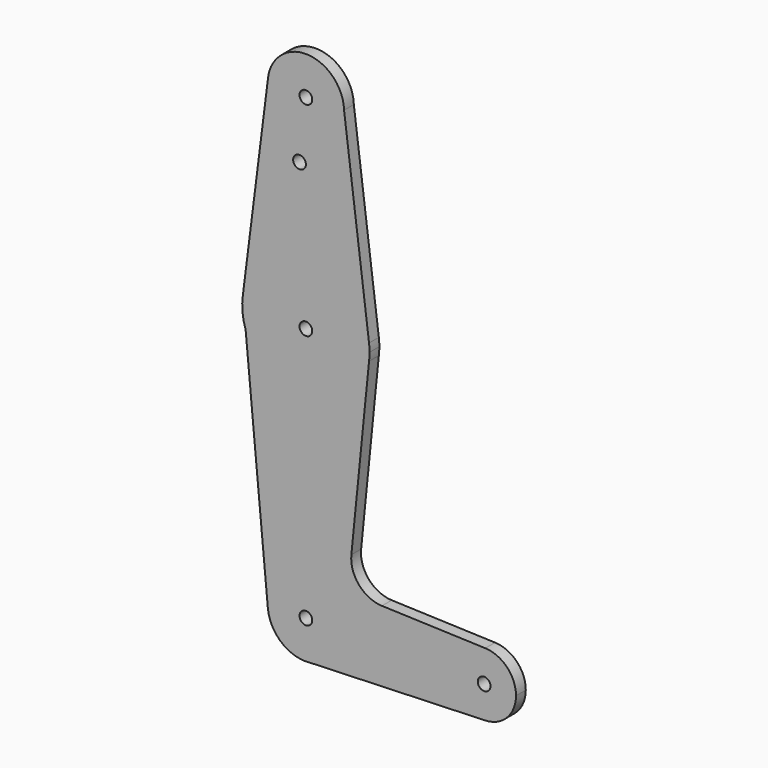
from build123d import *

# Parameters (mm, degrees)
F0_R     = 1.5875
F1_DEPTH = 3.048
F2_DEPTH = 3.048


with BuildPart() as f1:
    # F0 (on Front) → F1 (new body)
    with BuildSketch(Plane.XZ):
        with BuildLine():
            ThreePointArc((-40.245861, 57.758709), (-31.072538, 47.581872), (-21.218582, 57.10119))
            ThreePointArc((-21.218582, 57.10119), (-21.219597, 57.24023), (-21.222642, 57.37924))
            ThreePointArc((-21.222642, 57.37924), (-30.553618, 66.624296), (-40.245861, 57.758709))
        make_face()
        with Locations((-30.743582, 57.10119)):
            Circle(F0_R, mode=Mode.SUBTRACT)
        with BuildLine():
            ThreePointArc((-21.222642, 57.37924), (-21.219597, 57.24023), (-21.218582, 57.10119))
            ThreePointArc((-21.218582, 57.10119), (-31.072538, 47.581872), (-40.245861, 57.758709))
            Line((-40.245861, 57.758709), (-46.456372, 8.564788))
            ThreePointArc((-46.456372, 8.564788), (-30.609759, 22.175626), (-14.994864, 8.299563))
            Line((-14.994864, 8.299563), (-21.222642, 57.37924))
        make_face()
        with Locations((-32.331082, 42.371821)):
            Circle(F0_R, mode=Mode.SUBTRACT)
        with BuildLine():
            ThreePointArc((-14.868582, 6.30119), (-14.900184, 7.30237), (-14.994864, 8.299563))
            ThreePointArc((-14.994864, 8.299563), (-30.609759, 22.175626), (-46.456372, 8.564788))
            Line((-46.456372, 8.564788), (-45.764803, 1.165184))
            ThreePointArc((-45.764803, 1.165184), (-29.133149, -9.491914), (-14.994864, 4.302817))
            ThreePointArc((-14.994864, 4.302817), (-14.900184, 5.30001), (-14.868582, 6.30119))
        make_face()
        with Locations((-30.743582, 6.30119)):
            Circle(F0_R, mode=Mode.SUBTRACT)
        with BuildLine():
            Line((-45.764803, 1.165184), (-46.456372, 8.564788))
            ThreePointArc((-46.456372, 8.564788), (-46.549701, 4.823947), (-45.764803, 1.165184))
        make_face()
        with BuildLine():
            ThreePointArc((-14.994864, 4.302817), (-29.133149, -9.491914), (-45.764803, 1.165184))
            Line((-45.764803, 1.165184), (-40.227253, -58.085156))
            ThreePointArc((-40.227253, -58.085156), (-31.187237, -47.684148), (-21.218582, -57.19881))
            ThreePointArc((-21.218582, -57.19881), (-23.60461, -63.504418), (-29.567285, -66.650897))
            Line((-29.567285, -66.650897), (13.983177, -65.131484))
            ThreePointArc((13.983177, -65.131484), (5.768918, -57.195985), (13.988823, -49.266335))
            Line((13.988823, -49.266335), (-11.776856, -48.349047))
            ThreePointArc((-11.776856, -48.349047), (-17.483755, -45.631547), (-19.404416, -39.60954))
            Line((-19.404416, -39.60954), (-14.994864, 4.302817))
        make_face()
        with BuildLine():
            ThreePointArc((-21.218582, -57.19881), (-31.187237, -47.684148), (-40.227253, -58.085156))
            ThreePointArc((-40.227253, -58.085156), (-36.709829, -64.623736), (-29.567285, -66.650897))
            ThreePointArc((-29.567285, -66.650897), (-23.60461, -63.504418), (-21.218582, -57.19881))
        make_face()
        with Locations((-30.743582, -57.19881)):
            Circle(F0_R, mode=Mode.SUBTRACT)
        with BuildLine():
            ThreePointArc((13.988823, -49.266335), (5.768918, -57.195985), (13.983177, -65.131484))
            ThreePointArc((13.983177, -65.131484), (19.416089, -62.712753), (21.643918, -57.19881))
            ThreePointArc((21.643918, -57.19881), (19.41805, -51.6869), (13.988823, -49.266335))
        make_face()
        with Locations((13.706418, -57.19881)):
            Circle(F0_R, mode=Mode.SUBTRACT)
    extrude(amount=F1_DEPTH)


with BuildPart() as f2:
    # F0 (on Front) → F2 (new body)
    with BuildSketch(Plane.XZ):
        with BuildLine():
            ThreePointArc((-40.245861, 57.758709), (-31.072538, 47.581872), (-21.218582, 57.10119))
            ThreePointArc((-21.218582, 57.10119), (-21.219597, 57.24023), (-21.222642, 57.37924))
            ThreePointArc((-21.222642, 57.37924), (-30.553618, 66.624296), (-40.245861, 57.758709))
        make_face()
        with Locations((-30.743582, 57.10119)):
            Circle(F0_R, mode=Mode.SUBTRACT)
        with BuildLine():
            ThreePointArc((-21.222642, 57.37924), (-21.219597, 57.24023), (-21.218582, 57.10119))
            ThreePointArc((-21.218582, 57.10119), (-31.072538, 47.581872), (-40.245861, 57.758709))
            Line((-40.245861, 57.758709), (-46.456372, 8.564788))
            ThreePointArc((-46.456372, 8.564788), (-30.609759, 22.175626), (-14.994864, 8.299563))
            Line((-14.994864, 8.299563), (-21.222642, 57.37924))
        make_face()
        with Locations((-32.331082, 42.371821)):
            Circle(F0_R, mode=Mode.SUBTRACT)
        with BuildLine():
            ThreePointArc((-14.868582, 6.30119), (-14.900184, 7.30237), (-14.994864, 8.299563))
            ThreePointArc((-14.994864, 8.299563), (-30.609759, 22.175626), (-46.456372, 8.564788))
            Line((-46.456372, 8.564788), (-45.764803, 1.165184))
            ThreePointArc((-45.764803, 1.165184), (-29.133149, -9.491914), (-14.994864, 4.302817))
            ThreePointArc((-14.994864, 4.302817), (-14.900184, 5.30001), (-14.868582, 6.30119))
        make_face()
        with Locations((-30.743582, 6.30119)):
            Circle(F0_R, mode=Mode.SUBTRACT)
        with BuildLine():
            Line((-45.764803, 1.165184), (-46.456372, 8.564788))
            ThreePointArc((-46.456372, 8.564788), (-46.549701, 4.823947), (-45.764803, 1.165184))
        make_face()
        with BuildLine():
            ThreePointArc((-14.994864, 4.302817), (-29.133149, -9.491914), (-45.764803, 1.165184))
            Line((-45.764803, 1.165184), (-40.227253, -58.085156))
            ThreePointArc((-40.227253, -58.085156), (-31.187237, -47.684148), (-21.218582, -57.19881))
            ThreePointArc((-21.218582, -57.19881), (-23.60461, -63.504418), (-29.567285, -66.650897))
            Line((-29.567285, -66.650897), (13.983177, -65.131484))
            ThreePointArc((13.983177, -65.131484), (5.768918, -57.195985), (13.988823, -49.266335))
            Line((13.988823, -49.266335), (-11.776856, -48.349047))
            ThreePointArc((-11.776856, -48.349047), (-17.483755, -45.631547), (-19.404416, -39.60954))
            Line((-19.404416, -39.60954), (-14.994864, 4.302817))
        make_face()
        with BuildLine():
            ThreePointArc((-21.218582, -57.19881), (-31.187237, -47.684148), (-40.227253, -58.085156))
            ThreePointArc((-40.227253, -58.085156), (-36.709829, -64.623736), (-29.567285, -66.650897))
            ThreePointArc((-29.567285, -66.650897), (-23.60461, -63.504418), (-21.218582, -57.19881))
        make_face()
        with Locations((-30.743582, -57.19881)):
            Circle(F0_R, mode=Mode.SUBTRACT)
        with BuildLine():
            ThreePointArc((13.988823, -49.266335), (5.768918, -57.195985), (13.983177, -65.131484))
            ThreePointArc((13.983177, -65.131484), (19.416089, -62.712753), (21.643918, -57.19881))
            ThreePointArc((21.643918, -57.19881), (19.41805, -51.6869), (13.988823, -49.266335))
        make_face()
        with Locations((13.706418, -57.19881)):
            Circle(F0_R, mode=Mode.SUBTRACT)
    extrude(amount=F2_DEPTH)


solid = Compound([f1.part, f2.part])
